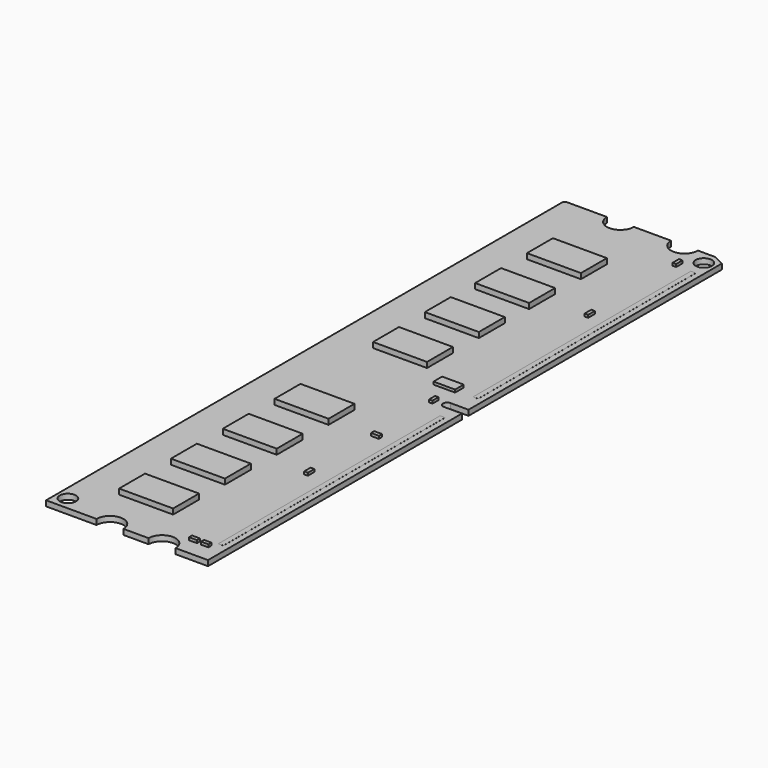
from build123d import *

# Parameters (mm, degrees)
F1_DEPTH  = 1
F2_W      = 10
F2_H      = 6
F3_DEPTH  = 1
F5_DEPTH  = 25
F6_R      = 1.5
F7_DEPTH  = 25
F8_W      = 4
F8_H      = 2
F9_DEPTH  = 0.5
F10_W     = 10
F10_H     = 6
F11_DEPTH = 1
F12_W     = 0.640901
F12_H     = 1.45201
F12_W_2   = 1.46237
F12_H_2   = 0.719787
F13_DEPTH = 0.5
F14_W     = 0.640901
F14_H     = 1.537751
F14_W_2   = 0.682369
F14_H_2   = 1.484867
F15_DEPTH = 0.5
F16_W     = 1.478707
F16_H     = 0.68773
F16_W_2   = 1.341155
F17_DEPTH = 0.5
F18_W     = 0.937498
F18_H     = 50.415176
F19_DEPTH = 0.01
F20_W     = 0.937
F20_H     = 51.353466
F21_DEPTH = 0.01


with BuildPart() as f1:
    # F0 (on Top) → F1 (new body)
    with BuildSketch(Plane.XY):
        with BuildLine():
            Line((-39.756494, 60.743838), (-47.655948, 60.743838))
            Line((-47.655948, 60.743838), (-47.655948, -59.256162))
            Line((-47.655948, -59.256162), (-38.312687, -59.256162))
            ThreePointArc((-38.312687, -59.256162), (-35.812687, -56.756162), (-33.312687, -59.256162))
            Line((-33.312687, -59.256162), (-28.665433, -59.256162))
            ThreePointArc((-28.665433, -59.256162), (-26.165433, -56.756162), (-23.665433, -59.256162))
            Line((-23.665433, -59.256162), (-17.655948, -59.256162))
            Line((-17.655948, -59.256162), (-17.655948, -0.455188))
            Line((-17.655948, -0.455188), (-20.987641, -0.455188))
            ThreePointArc((-20.987641, -0.455188), (-21.7529, 0.310071), (-20.987641, 1.07533))
            Line((-20.987641, 1.07533), (-17.655948, 1.07533))
            Line((-17.655948, 1.07533), (-17.655948, 59.755523))
            Line((-17.655948, 59.755523), (-19.64468, 60.743838))
            Line((-19.64468, 60.743838), (-22.878788, 60.743838))
            ThreePointArc((-22.878788, 60.743838), (-25.378788, 58.243838), (-27.878788, 60.743838))
            Line((-27.878788, 60.743838), (-34.756494, 60.743838))
            ThreePointArc((-34.756494, 60.743838), (-37.256494, 58.243838), (-39.756494, 60.743838))
        make_face()
    extrude(amount=F1_DEPTH)

    # F4 (on face) → F5 (cut)
    with BuildSketch(Plane.XY.offset(1)):
        Polygon((-47.655948, 60.46449), (-47.368012, 60.743838), (-47.655948, 60.743838), align=None)
    extrude(amount=-F5_DEPTH, mode=Mode.SUBTRACT)

    # F6 (on face) → F7 (cut)
    with BuildSketch(Plane.XY.offset(1)):
        with Locations((-19.806085, 58.243838)):
            Circle(F6_R)
        with Locations((-45.556497, -56.825764)):
            Circle(F6_R)
    extrude(amount=-F7_DEPTH, mode=Mode.SUBTRACT)

    # F12 (on face) → F13 (join)
    with BuildSketch(Plane.XY.offset(1)):
        with Locations((-22.445988, 55.470789)):
            Rectangle(F12_W, F12_H)
        with Locations((-22.804821, -13.798419)):
            Rectangle(F12_W_2, F12_H_2)
    extrude(amount=F13_DEPTH)


with BuildPart() as f3:
    # F2 (on face) → F3 (new body)
    with BuildSketch(Plane.XY.offset(1)):
        with Locations((-35.50325, 10.522216)):
            Rectangle(F2_W, F2_H)
        with Locations((-35.50325, 22.522216)):
            Rectangle(F2_W, F2_H)
        with Locations((-35.50325, 34.167397)):
            Rectangle(F2_W, F2_H)
        with Locations((-35.50325, 46.167397)):
            Rectangle(F2_W, F2_H)
    extrude(amount=F3_DEPTH)


with BuildPart() as f9:
    # F8 (on face) → F9 (new body)
    with BuildSketch(Plane.XY.offset(1)):
        Polygon((-22.915684, -0.7), (-22.915684, 0), (-22.915684, 0.701013), (-23.536006, 0.701013), (-23.536006, -0.7), align=None)
        with Locations((-24.525962, 5.050029)):
            Rectangle(F8_W, F8_H)
    extrude(amount=F9_DEPTH)


with BuildPart() as f11:
    # F10 (on face) → F11 (new body)
    with BuildSketch(Plane.XY.offset(1)):
        with Locations((-35.50325, -48.282394)):
            Rectangle(F10_W, F10_H)
        with Locations((-35.50325, -36.282394)):
            Rectangle(F10_W, F10_H)
        with Locations((-35.50325, -24.282394)):
            Rectangle(F10_W, F10_H)
        with Locations((-35.50325, -12.282394)):
            Rectangle(F10_W, F10_H)
    extrude(amount=F11_DEPTH)


with BuildPart() as f15:
    # F14 (on face) → F15 (new body)
    with BuildSketch(Plane.XY.offset(1)):
        with Locations((-22.445988, 35.124359)):
            Rectangle(F14_W, F14_H)
        with Locations((-23.219972, -28.849742)):
            Rectangle(F14_W_2, F14_H_2)
    extrude(amount=F15_DEPTH)


with BuildPart() as f17:
    # F16 (on face) → F17 (new body)
    with BuildSketch(Plane.XY.offset(1)):
        with Locations((-22.948895, -55.770071)):
            Rectangle(F16_W, F16_H)
        with Locations((-20.782418, -55.770071)):
            Rectangle(F16_W_2, F16_H)
    extrude(amount=F17_DEPTH)


with BuildPart() as f19:
    # F18 (on face) → F19 (new body)
    with BuildSketch(Plane.XY.offset(1)):
        with Locations((-19.175931, 29.833196)):
            Rectangle(F18_W, F18_H)
    extrude(amount=F19_DEPTH)


with BuildPart() as f21:
    # F20 (on face) → F21 (new body)
    with BuildSketch(Plane.XY.offset(1)):
        with Locations((-19.210921, -28.659517)):
            Rectangle(F20_W, F20_H)
    extrude(amount=F21_DEPTH)


solid = Compound([f1.part, f3.part, f9.part, f11.part, f15.part, f17.part, f19.part, f21.part])
